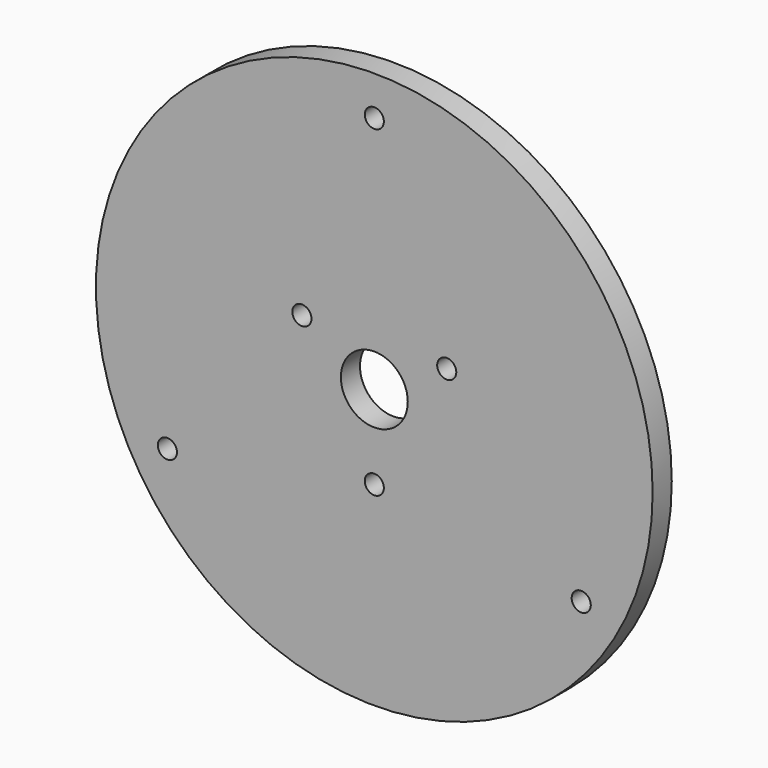
from build123d import *

# Parameters (mm, degrees)
F0_R     = 116.5
F0_R_2   = 4
F0_R_3   = 14
F1_DEPTH = 10


with BuildPart() as f1:
    # F0 (on Front) → F1 (new body)
    with BuildSketch(Plane.XZ):
        Circle(F0_R)
        with Locations((-86.60254, -50)):
            Circle(F0_R_2, mode=Mode.SUBTRACT)
        with Locations((0, -35)):
            Circle(F0_R_2, mode=Mode.SUBTRACT)
        with Locations((86.60254, -50)):
            Circle(F0_R_2, mode=Mode.SUBTRACT)
        with Locations((-30.310889, 17.5)):
            Circle(F0_R_2, mode=Mode.SUBTRACT)
        Circle(F0_R_3, mode=Mode.SUBTRACT)
        with Locations((30.310889, 17.5)):
            Circle(F0_R_2, mode=Mode.SUBTRACT)
        with Locations((0, 100)):
            Circle(F0_R_2, mode=Mode.SUBTRACT)
    extrude(amount=F1_DEPTH)


solid = f1.part
